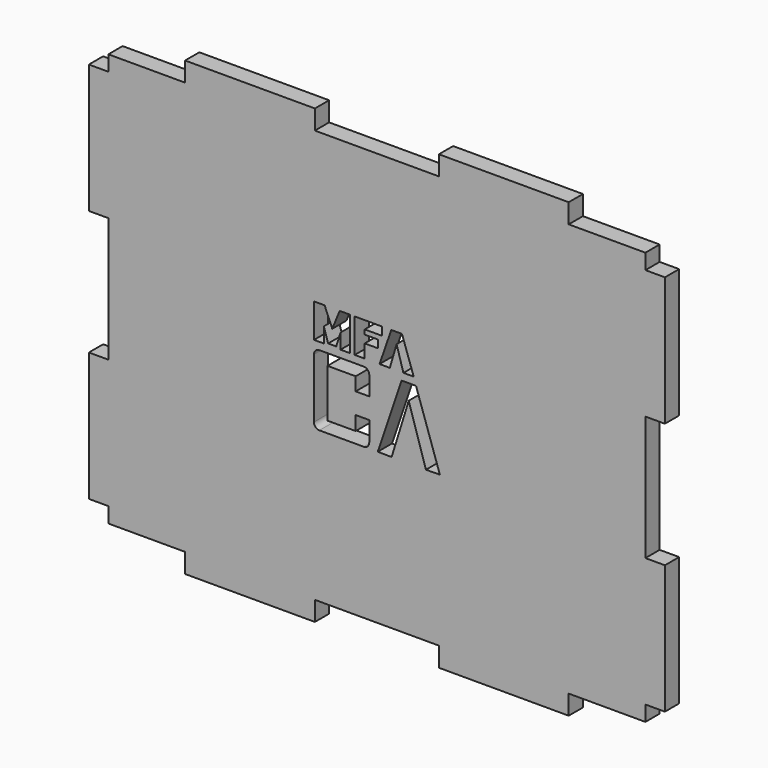
from build123d import *

# Parameters (mm, degrees)
F1_DEPTH = 5.8


with BuildPart() as f1:
    # F0 (on Front) → F1 (new body)
    with BuildSketch(Plane.XZ):
        Polygon((87.5, 62.3), (87.5, 67.3), (62.5, 67.3), (62.5, 73.65), (20.2, 73.65), (20.2, 67.3), (-20.2, 67.3), (-20.2, 73.65), (-62.5, 73.65), (-62.5, 67.3), (-87.5, 67.3), (-87.5, 62.3), (-93.85, 62.3), (-93.85, 20.3), (-87.5, 20.3), (-87.5, -20.3), (-93.85, -20.3), (-93.85, -62.3), (-87.5, -62.3), (-87.5, -67.3), (-62.5, -67.3), (-62.5, -73.65), (-20.2, -73.65), (-20.2, -67.3), (20.2, -67.3), (20.2, -73.65), (62.5, -73.65), (62.5, -67.3), (87.5, -67.3), (87.5, -62.3), (93.85, -62.3), (93.85, -20.3), (87.5, -20.3), (87.5, 20.3), (93.85, 20.3), (93.85, 62.3), align=None)
        with BuildLine():
            ThreePointArc((-2.48414, -16.414051), (-3.011348, -17.686843), (-4.28414, -18.214051))
            Line((-4.28414, -18.214051), (-18.722851, -18.214053))
            ThreePointArc((-18.722851, -18.214053), (-19.995643, -17.686845), (-20.522851, -16.414053))
            Line((-20.522851, -16.414053), (-20.522851, 2.993572))
            ThreePointArc((-20.522851, 2.993572), (-19.995643, 4.266364), (-18.722851, 4.793572))
            Line((-18.722851, 4.793572), (-4.28414, 4.79357))
            ThreePointArc((-4.28414, 4.79357), (-3.011348, 4.266362), (-2.48414, 2.99357))
            Line((-2.48414, 2.99357), (-2.48414, -3.186868))
            Line((-2.48414, -3.186868), (-6.911026, -3.186868))
            Line((-6.911026, -3.186868), (-6.911026, 1.14975))
            Line((-6.911026, 1.14975), (-16.095965, 1.14975))
            Line((-16.095965, 1.14975), (-16.095965, -14.57023))
            Line((-16.095965, -14.57023), (-6.911026, -14.57023))
            Line((-6.911026, -14.57023), (-6.911026, -9.962669))
            Line((-6.911026, -9.962669), (-2.48414, -9.962669))
            Line((-2.48414, -9.962669), (-2.48414, -16.414051))
        make_face(mode=Mode.SUBTRACT)
        Polygon((4.802941, -18.214051), (0.285788, -18.153826), (8.05544, 4.793572), (12.753269, 4.793572), (20.522851, -18.153826), (15.975515, -18.214051), (10.374172, -0.235564), align=None, mode=Mode.SUBTRACT)
        Polygon((-17.285935, 7.171967), (-20.494564, 7.171967), (-20.494564, 18.214053), (-17.025802, 18.214053), (-14.539873, 12.288281), (-12.126241, 18.214053), (-8.686399, 18.214053), (-8.686399, 7.171967), (-11.851649, 7.171967), (-11.851649, 12.100447), (-13.253599, 7.648853), (-15.884055, 7.648853), (-17.285935, 12.100447), align=None, mode=Mode.SUBTRACT)
        Polygon((-3.960774, 11.536803), (-3.960774, 7.171967), (-7.227172, 7.171967), (-7.227172, 18.214053), (1.675946, 18.214053), (1.675946, 15.554749), (-3.960774, 15.554749), (-3.960774, 14.051651), (0.404062, 14.051651), (0.404062, 11.536803), align=None, mode=Mode.SUBTRACT)
        Polygon((4.204833, 7.171967), (0.880667, 7.200886), (4.696249, 18.214053), (8.1794, 18.214053), (11.995052, 7.200886), (8.641967, 7.171967), (6.43063, 14.687593), align=None, mode=Mode.SUBTRACT)
    extrude(amount=F1_DEPTH)


solid = f1.part
